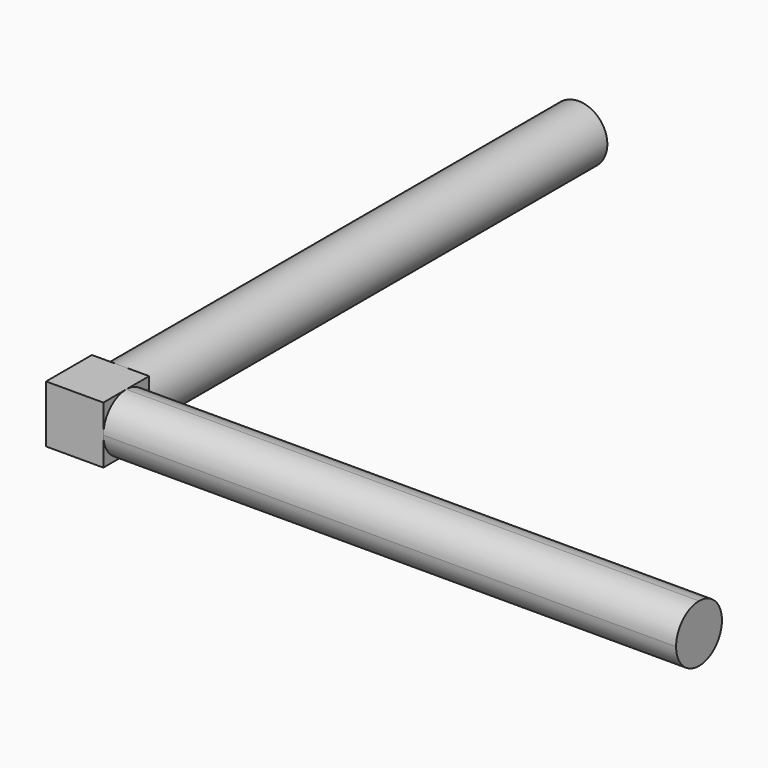
from build123d import *

# Parameters (mm, degrees)
F0_R     = 1.27
F1_DEPTH = 25.4
F3_DEPTH = 2.54
F5_DEPTH = 25.4


with BuildPart() as f1:
    # F0 (on Front) → F1 (new body)
    with BuildSketch(Plane.XZ):
        Circle(F0_R)
    extrude(amount=F1_DEPTH)

    # F2 (on face) → F3 (join)
    with BuildSketch(Plane.XZ.offset(25.4)):
        with BuildLine():
            ThreePointArc((-1.27, 0), (-0.898026, -0.898026), (0, -1.27))
            ThreePointArc((0, -1.27), (0.898026, -0.898026), (1.27, 0))
            ThreePointArc((1.27, 0), (0.898026, 0.898026), (0, 1.27))
            ThreePointArc((0, 1.27), (-0.898026, 0.898026), (-1.27, 0))
        make_face()
        with BuildLine():
            ThreePointArc((0, 1.27), (0.898026, 0.898026), (1.27, 0))
            Line((1.27, 0), (1.27, 1.27))
            Line((1.27, 1.27), (0, 1.27))
        make_face()
        with BuildLine():
            Line((0, -1.27), (1.27, -1.27))
            Line((1.27, -1.27), (1.27, 0))
            ThreePointArc((1.27, 0), (0.898026, -0.898026), (0, -1.27))
        make_face()
        with BuildLine():
            Line((-1.27, -1.27), (0, -1.27))
            ThreePointArc((0, -1.27), (-0.898026, -0.898026), (-1.27, 0))
            Line((-1.27, 0), (-1.27, -1.27))
        make_face()
        with BuildLine():
            Line((-1.27, 1.27), (-1.27, 0))
            ThreePointArc((-1.27, 0), (-0.898026, 0.898026), (0, 1.27))
            Line((0, 1.27), (-1.27, 1.27))
        make_face()
    extrude(amount=F3_DEPTH)

    # F4 (on face) → F5 (join)
    with BuildSketch(Plane.YZ.offset(1.27)):
        with BuildLine():
            Line((-27.94, 0), (-25.4, 0))
            ThreePointArc((-25.4, 0), (-25.771974, 0.898026), (-26.67, 1.27))
            ThreePointArc((-26.67, 1.27), (-27.568026, 0.898026), (-27.94, 0))
        make_face()
        with BuildLine():
            ThreePointArc((-26.67, -1.27), (-25.771974, -0.898026), (-25.4, 0))
            Line((-25.4, 0), (-27.94, 0))
            ThreePointArc((-27.94, 0), (-27.568026, -0.898026), (-26.67, -1.27))
        make_face()
    extrude(amount=F5_DEPTH)


solid = f1.part
